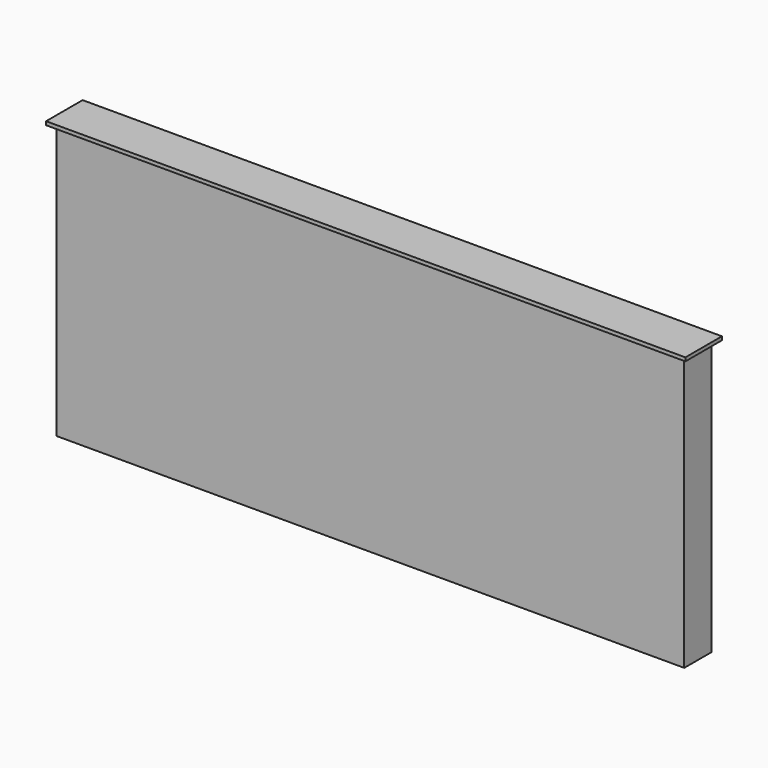
from build123d import *

# Parameters (mm, degrees)
F0_W     = 2794
F0_H     = 1219.2
F1_DEPTH = 152.4
F2_W     = 2844.8
F2_H     = 203.2
F2_W_2   = 2794
F2_H_2   = 152.4
F3_DEPTH = 15.875


with BuildPart() as f1:
    # F0 (on Front) → F1 (new body)
    with BuildSketch(Plane.XZ):
        Rectangle(F0_W, F0_H)
    extrude(amount=F1_DEPTH)


with BuildPart() as f3:
    # F2 (on face) → F3 (new body)
    with BuildSketch(Plane.XY.offset(609.6)):
        with Locations((0, -76.2)):
            Rectangle(F2_W, F2_H)
        with Locations((0, -76.2)):
            Rectangle(F2_W_2, F2_H_2, mode=Mode.SUBTRACT)
        with Locations((0, -76.2)):
            Rectangle(F2_W_2, F2_H_2)
    extrude(amount=F3_DEPTH)


solid = Compound([f1.part, f3.part])
